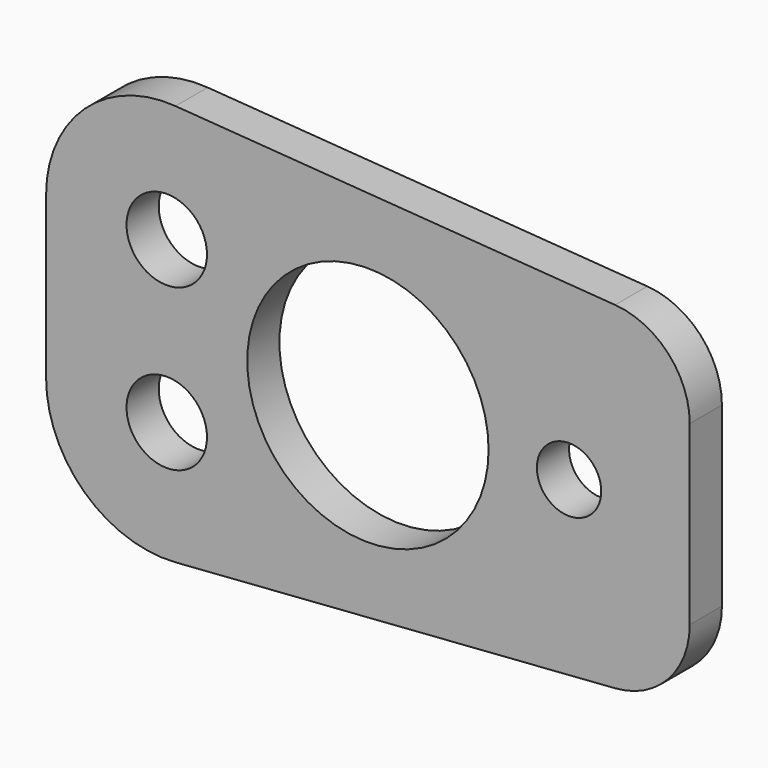
from build123d import *

# Parameters (mm, degrees)
F0_R     = 5
F0_R_2   = 15
F0_R_3   = 4
F1_DEPTH = 5


with BuildPart() as f1:
    # F0 (on Front) → F1 (new body)
    with BuildSketch(Plane.XZ):
        with BuildLine():
            ThreePointArc((-23.908368, 24.960225), (-35.213362, 20.985775), (-40, 10))
            Line((-40, 10), (-40, -10))
            ThreePointArc((-40, -10), (-35.213362, -20.985775), (-23.908368, -24.960225))
            Line((-23.908368, -24.960225), (30.727755, -20.973483))
            ThreePointArc((30.727755, -20.973483), (37.32385, -17.808908), (40, -11))
            Line((40, -11), (40, 11))
            ThreePointArc((40, 11), (37.32385, 17.808908), (30.727755, 20.973483))
            Line((30.727755, 20.973483), (-23.908368, 24.960225))
        make_face()
        with Locations((-25, -10)):
            Circle(F0_R, mode=Mode.SUBTRACT)
        with Locations((-25, 10)):
            Circle(F0_R, mode=Mode.SUBTRACT)
        Circle(F0_R_2, mode=Mode.SUBTRACT)
        with Locations((25, 0)):
            Circle(F0_R_3, mode=Mode.SUBTRACT)
    extrude(amount=F1_DEPTH)


solid = f1.part
